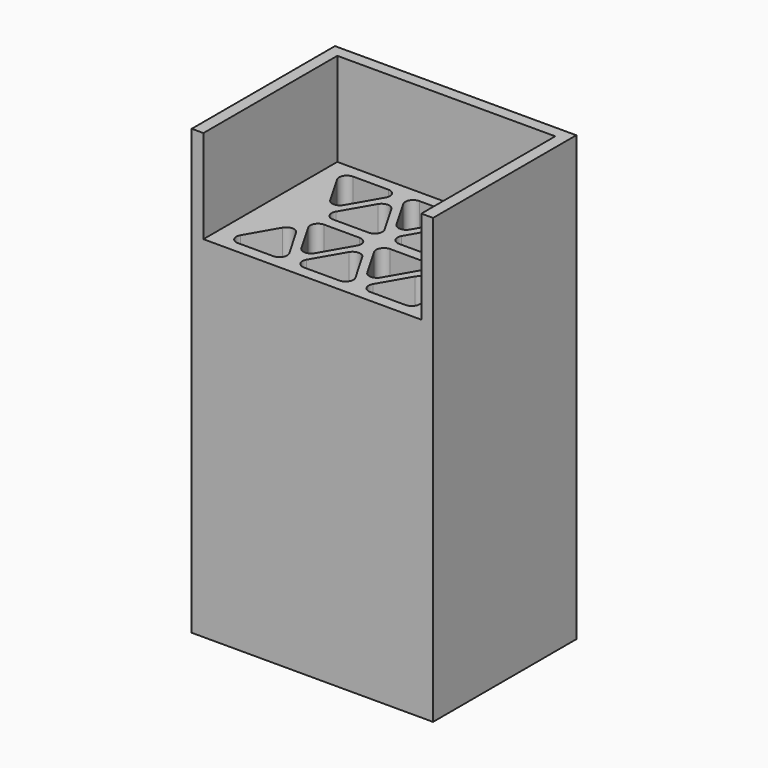
from build123d import *

# Parameters (mm, degrees)
F0_W     = 787.4
F0_H     = 584.2
F1_DEPTH = 1447.8
F2_W     = 711.2
F2_H     = 304.8
F3_DEPTH = 546.1
F5_DEPTH = 1016


with BuildPart() as f1:
    # F0 (on Top) → F1 (new body)
    with BuildSketch(Plane.XY):
        with Locations((322.746758, 217.150773)):
            Rectangle(F0_W, F0_H)
    extrude(amount=F1_DEPTH)

    # F2 (on face) → F3 (cut)
    with BuildSketch(Plane.XZ.offset(74.949227)):
        with Locations((322.746758, 1295.4)):
            Rectangle(F2_W, F2_H)
    extrude(amount=-F3_DEPTH, mode=Mode.SUBTRACT)

    # F4 (on face) → F5 (cut)
    with BuildSketch(Plane.XY.offset(1143)):
        with BuildLine():
            ThreePointArc((27.243803, 1.250773), (27.243803, -24.149227), (49.240848, -36.849227))
            Line((49.240848, -36.849227), (164.452667, -36.849227))
            ThreePointArc((164.452667, -36.849227), (186.449712, -24.149227), (186.449712, 1.250773))
            Line((186.449712, 1.250773), (128.843803, 101.027135))
            ThreePointArc((128.843803, 101.027135), (106.846758, 113.727135), (84.849712, 101.027135))
            Line((84.849712, 101.027135), (27.243803, 1.250773))
        make_face()
        with BuildLine():
            ThreePointArc((380.352667, -36.849227), (402.349712, -24.149227), (402.349712, 1.250773))
            Line((402.349712, 1.250773), (344.743803, 101.027135))
            ThreePointArc((344.743803, 101.027135), (322.746758, 113.727135), (300.749712, 101.027135))
            Line((300.749712, 101.027135), (243.143803, 1.250773))
            ThreePointArc((243.143803, 1.250773), (243.143803, -24.149227), (265.140848, -36.849227))
            Line((265.140848, -36.849227), (380.352667, -36.849227))
        make_face()
        with BuildLine():
            ThreePointArc((596.252667, -36.849227), (618.249712, -24.149227), (618.249712, 1.250773))
            Line((618.249712, 1.250773), (560.643803, 101.027135))
            ThreePointArc((560.643803, 101.027135), (538.646758, 113.727135), (516.649712, 101.027135))
            Line((516.649712, 101.027135), (459.043803, 1.250773))
            ThreePointArc((459.043803, 1.250773), (459.043803, -24.149227), (481.040848, -36.849227))
            Line((481.040848, -36.849227), (596.252667, -36.849227))
        make_face()
        with BuildLine():
            Line((272.760662, 179.894812), (157.548843, 179.894812))
            ThreePointArc((157.548843, 179.894812), (135.551798, 167.194812), (135.551798, 141.794812))
            Line((135.551798, 141.794812), (193.157707, 42.01845))
            ThreePointArc((193.157707, 42.01845), (215.154753, 29.31845), (237.151798, 42.01845))
            Line((237.151798, 42.01845), (294.757707, 141.794812))
            ThreePointArc((294.757707, 141.794812), (294.757707, 167.194812), (272.760662, 179.894812))
        make_face()
        with BuildLine():
            ThreePointArc((509.941717, 141.794812), (509.941717, 167.194812), (487.944672, 179.894812))
            Line((487.944672, 179.894812), (372.732853, 179.894812))
            ThreePointArc((372.732853, 179.894812), (350.735808, 167.194812), (350.735808, 141.794812))
            Line((350.735808, 141.794812), (408.341717, 42.01845))
            ThreePointArc((408.341717, 42.01845), (430.338762, 29.31845), (452.335808, 42.01845))
            Line((452.335808, 42.01845), (509.941717, 141.794812))
        make_face()
        with BuildLine():
            Line((164.452667, 433.050773), (49.240848, 433.050773))
            ThreePointArc((49.240848, 433.050773), (27.243803, 420.350773), (27.243803, 394.950773))
            Line((27.243803, 394.950773), (84.849712, 295.174411))
            ThreePointArc((84.849712, 295.174411), (106.846758, 282.474411), (128.843803, 295.174411))
            Line((128.843803, 295.174411), (186.449712, 394.950773))
            ThreePointArc((186.449712, 394.950773), (186.449712, 420.350773), (164.452667, 433.050773))
        make_face()
        with BuildLine():
            Line((560.643803, 295.174411), (618.249712, 394.950773))
            ThreePointArc((618.249712, 394.950773), (618.249712, 420.350773), (596.252667, 433.050773))
            Line((596.252667, 433.050773), (481.040848, 433.050773))
            ThreePointArc((481.040848, 433.050773), (459.043803, 420.350773), (459.043803, 394.950773))
            Line((459.043803, 394.950773), (516.649712, 295.174411))
            ThreePointArc((516.649712, 295.174411), (538.646758, 282.474411), (560.643803, 295.174411))
        make_face()
        with BuildLine():
            ThreePointArc((237.151798, 354.183096), (215.154753, 366.883096), (193.157707, 354.183096))
            Line((193.157707, 354.183096), (135.551798, 254.406734))
            ThreePointArc((135.551798, 254.406734), (135.551798, 229.006734), (157.548843, 216.306734))
            Line((157.548843, 216.306734), (272.760662, 216.306734))
            ThreePointArc((272.760662, 216.306734), (294.757707, 229.006734), (294.757707, 254.406734))
            Line((294.757707, 254.406734), (237.151798, 354.183096))
        make_face()
        with BuildLine():
            Line((408.341717, 354.183096), (350.735808, 254.406734))
            ThreePointArc((350.735808, 254.406734), (350.735808, 229.006734), (372.732853, 216.306734))
            Line((372.732853, 216.306734), (487.944672, 216.306734))
            ThreePointArc((487.944672, 216.306734), (509.941717, 229.006734), (509.941717, 254.406734))
            Line((509.941717, 254.406734), (452.335808, 354.183096))
            ThreePointArc((452.335808, 354.183096), (430.338762, 366.883096), (408.341717, 354.183096))
        make_face()
        with BuildLine():
            ThreePointArc((265.140848, 433.050773), (243.143803, 420.350773), (243.143803, 394.950773))
            Line((243.143803, 394.950773), (300.749712, 295.174411))
            ThreePointArc((300.749712, 295.174411), (322.746758, 282.474411), (344.743803, 295.174411))
            Line((344.743803, 295.174411), (402.349712, 394.950773))
            ThreePointArc((402.349712, 394.950773), (402.349712, 420.350773), (380.352667, 433.050773))
            Line((380.352667, 433.050773), (265.140848, 433.050773))
        make_face()
    extrude(amount=-F5_DEPTH, mode=Mode.SUBTRACT)


solid = f1.part
